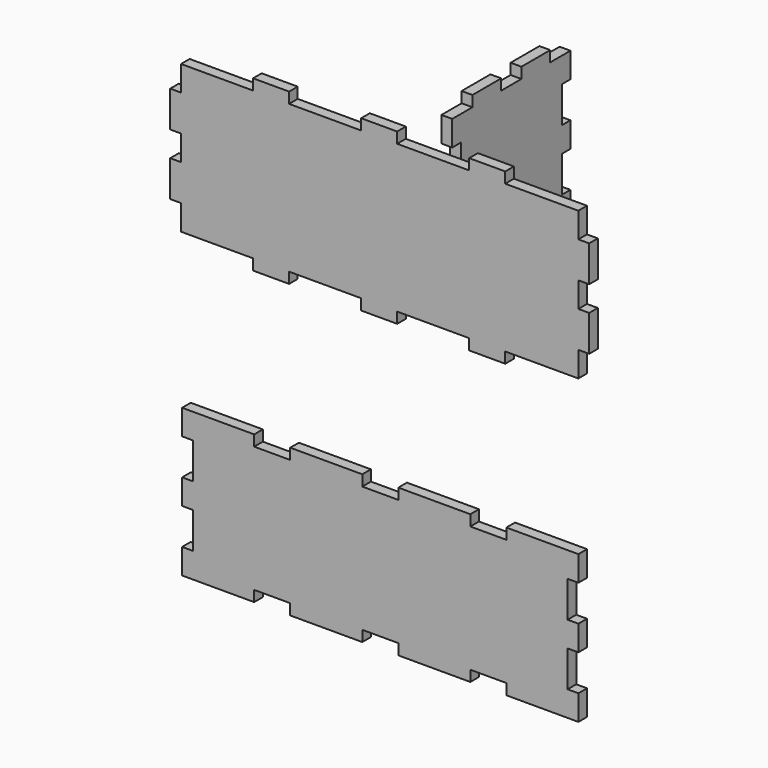
from build123d import *

# Parameters (mm, degrees)
F1_DEPTH = 3
F3_DEPTH = 3


with BuildPart() as f1:
    # F0 (on Front) → F1 (new body)
    with BuildSketch(Plane.XZ):
        Polygon((-62.871546, -60.728966), (-62.871546, -67.728966), (-42.871546, -67.728966), (-42.871546, -64.728966), (-32.871546, -64.728966), (-32.871546, -67.728966), (-12.871546, -67.728966), (-12.871546, -64.728966), (-2.871546, -64.728966), (-2.871546, -67.728966), (17.128454, -67.728966), (17.128454, -64.728966), (27.128454, -64.728966), (27.128454, -67.728966), (47.128454, -67.728966), (47.128454, -60.728966), (44.128454, -60.728966), (44.128454, -50.728966), (47.128454, -50.728966), (47.128454, -43.728966), (44.128454, -43.728966), (44.128454, -33.728966), (47.128454, -33.728966), (47.128454, -26.728966), (27.128454, -26.728966), (27.128454, -29.728966), (17.128454, -29.728966), (17.128454, -26.728966), (-2.871546, -26.728966), (-2.871546, -29.728966), (-12.871546, -29.728966), (-12.871546, -26.728966), (-32.871546, -26.728966), (-32.871546, -29.728966), (-42.871546, -29.728966), (-42.871546, -26.728966), (-62.871546, -26.728966), (-62.871546, -33.728966), (-59.871546, -33.728966), (-59.871546, -43.728966), (-62.871546, -43.728966), (-62.871546, -50.728966), (-59.871546, -50.728966), (-59.871546, -60.728966), align=None)
        Polygon((-43.183932, 57.186339), (-63.183932, 57.186339), (-63.183932, 50.186339), (-66.183932, 50.186339), (-66.183932, 40.186339), (-63.183932, 40.186339), (-63.183932, 33.186339), (-66.183932, 33.186339), (-66.183932, 23.186339), (-63.183932, 23.186339), (-63.183932, 16.186339), (-43.183932, 16.186339), (-43.183932, 13.186339), (-33.183932, 13.186339), (-33.183932, 16.186339), (-13.183932, 16.186339), (-13.183932, 13.186339), (-3.183932, 13.186339), (-3.183932, 16.186339), (16.816068, 16.186339), (16.816068, 13.186339), (26.816068, 13.186339), (26.816068, 16.186339), (47.107305, 16.186339), (47.107305, 23.186339), (50.107305, 23.186339), (50.107305, 33.186339), (47.107305, 33.186339), (47.107305, 40.186339), (50.107305, 40.186339), (50.107305, 50.186339), (47.107305, 50.186339), (47.107305, 57.186339), (26.816068, 57.186339), (26.816068, 60.186339), (16.816068, 60.186339), (16.816068, 57.186339), (-3.183932, 57.186339), (-3.183932, 60.186339), (-13.183932, 60.186339), (-13.183932, 57.186339), (-33.183932, 57.186339), (-33.183932, 60.186339), (-43.183932, 60.186339), align=None)
    extrude(amount=F1_DEPTH)


with BuildPart() as f3:
    # F2 (on Right) → F3 (new body)
    with BuildSketch(Plane.YZ):
        Polygon((42.379946, 19.652456), (49.379946, 19.652456), (49.379946, 26.652456), (46.379946, 26.652456), (46.379946, 36.652456), (49.379946, 36.652456), (49.379946, 43.652456), (46.379946, 43.652456), (46.379946, 53.652456), (49.379946, 53.652456), (49.379946, 60.652456), (42.379946, 60.652456), (42.379946, 63.652456), (32.379946, 63.652456), (32.379946, 60.652456), (25.379946, 60.652456), (25.379946, 63.652456), (15.379946, 63.652456), (15.379946, 60.652456), (8.379946, 60.652456), (8.379946, 53.652456), (11.379946, 53.652456), (11.379946, 43.652456), (8.379946, 43.652456), (8.379946, 36.652456), (11.379946, 36.652456), (11.379946, 26.652456), (8.379946, 26.652456), (8.379946, 19.652456), (15.379946, 19.652456), (15.379946, 16.652456), (25.379946, 16.652456), (25.379946, 19.652456), (32.379946, 19.652456), (32.379946, 16.652456), (42.379946, 16.652456), align=None)
    extrude(amount=F3_DEPTH)


solid = Compound([f1.part, f3.part])
